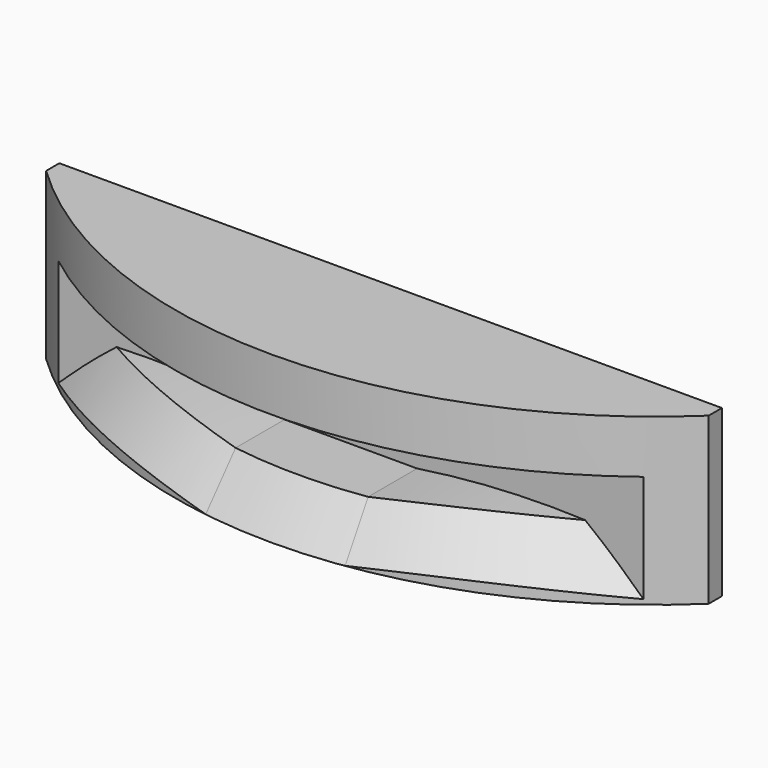
from build123d import *

# Parameters (mm, degrees)
PAD003_DEPTH    = 10
POCKET009_DEPTH = 6.001
CHAMFER_SIZE2   = 2
CHAMFER_SIZE    = 2.79


with BuildPart() as part:
    # Sketch036 → Pad003 (new body)
    with BuildSketch(Plane.XY):
        with BuildLine():
            ThreePointArc((-20, -1), (0, -9), (20, -1))
            Line((20, 0), (20, -1))
            Line((-20, 0), (20, 0))
            Line((-20, -1), (-20, 0))
        make_face()
    extrude(amount=PAD003_DEPTH)

    # Sketch037 (on DatumPlane) → Pocket009 (cut, through all)
    with BuildSketch(Plane.XZ.offset(3)):
        with BuildLine():
            Line((-20, 6.8), (20, 6.8))
            Line((20, 6.8), (20, 2.8))
            ThreePointArc((20, 2.8), (12, 3.4), (4, 2.8))
            Line((-4, 2.8), (4, 2.8))
            ThreePointArc((-4, 2.8), (-12, 3.4), (-20, 2.8))
            Line((-20, 2.8), (-20, 6.8))
        make_face()
    extrude(amount=POCKET009_DEPTH, mode=Mode.SUBTRACT)

    # Chamfer
    chamfer_edges = [part.edges().sort_by_distance(p)[0] for p in [
        (11.193894, -6.752509, 3.393942),
        (0, -9, 2.8),
        (-11.193894, -6.752509, 3.393942),
    ]]
    chamfer_side = part.faces().sort_by_distance((0, -9, 0.42))[0]
    chamfer(chamfer_edges, length=CHAMFER_SIZE, length2=CHAMFER_SIZE2, reference=chamfer_side)


with BuildPart() as part_1:
    # Body003 placement: moved
    add(part.part.moved(Location((0, -72, 10.5))))


solid = part_1.part
